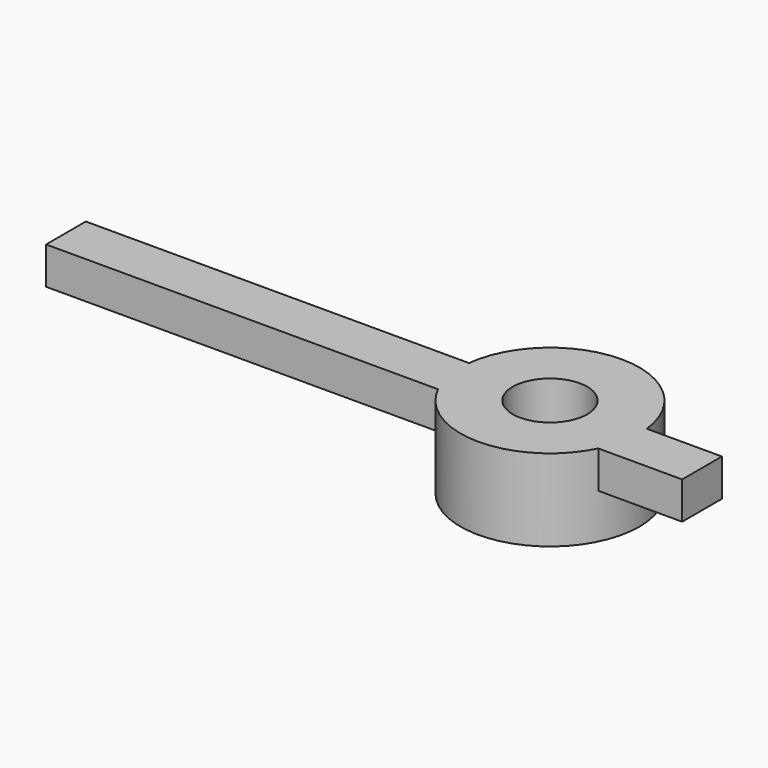
from build123d import *

# Parameters (mm, degrees)
CYLINDER002_R     = 0.75
CYLINDER002_DEPTH = 10
BOX005_W          = 12.8
BOX005_H          = 1
BOX005_DEPTH      = 0.75
CYLINDER001_R     = 1.8
CYLINDER001_DEPTH = 1.65


with BuildPart() as cylinder002:
    # Cylinder002 → Cylinder002 (new body)
    with BuildSketch(Plane(origin=(11.5, 6.7, 0), x_dir=(1, 0, 0), z_dir=(0, 0, 1))):
        Circle(CYLINDER002_R)
    extrude(amount=CYLINDER002_DEPTH)


with BuildPart() as sk1:
    # Box005 → Box005 (new body)
    with BuildSketch(Plane(origin=(2, 5.9, 0.9), x_dir=(1, 0, 0), z_dir=(0, 0, 1))):
        with Locations((6.4, 0.5)):
            Rectangle(BOX005_W, BOX005_H)
    extrude(amount=BOX005_DEPTH)


with BuildPart() as cut001:
    # Cylinder001 → Cylinder001 (new body)
    with BuildSketch(Plane(origin=(11.5, 6.7, 0), x_dir=(1, 0, 0), z_dir=(0, 0, 1))):
        Circle(CYLINDER001_R)
    extrude(amount=CYLINDER001_DEPTH)

    # Fusion001: union sk1
    add(sk1.part)

    # Cut001: cut Cylinder002
    add(cylinder002.part, mode=Mode.SUBTRACT)


solid = cut001.part
